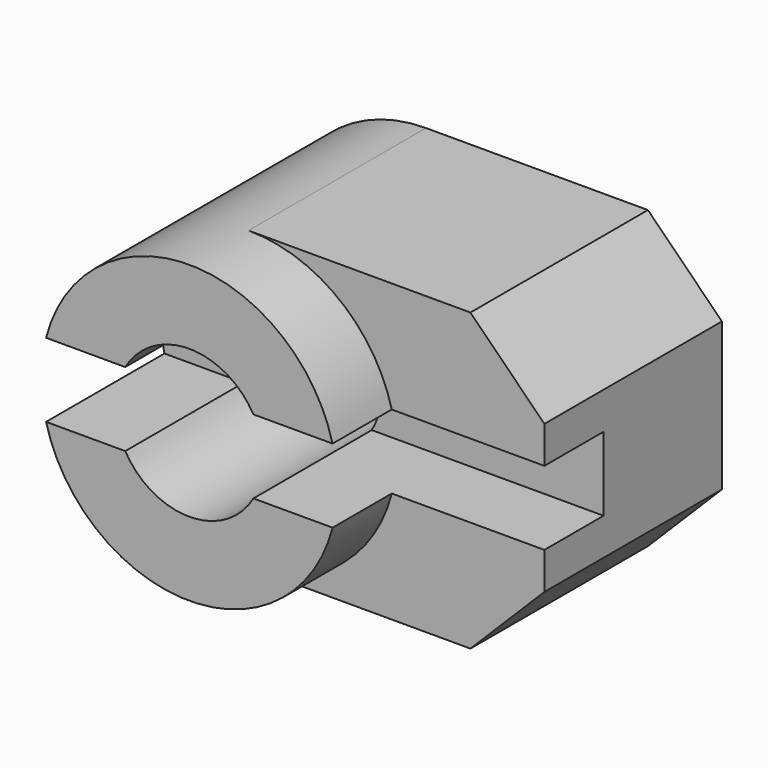
from build123d import *

# Parameters (mm, degrees)
F1_DEPTH = 15
F2_R     = 10
F3_DEPTH = 5
F4_R     = 5
F5_DEPTH = 20.001
F7_DEPTH = 10


with BuildPart() as f1:
    # F0 (on Front) → F1 (new body)
    with BuildSketch(Plane.XZ):
        with BuildLine():
            Line((15, 20), (0, 20))
            ThreePointArc((0, 20), (-10, 10), (0, 0))
            Line((0, 0), (15, 0))
            Line((15, 0), (20, 5))
            Line((20, 5), (20, 15))
            Line((20, 15), (15, 20))
        make_face()
    extrude(amount=F1_DEPTH)

    # F2 (on face) → F3 (join)
    with BuildSketch(Plane.XZ.offset(15)):
        with Locations((0, 10)):
            Circle(F2_R)
    extrude(amount=F3_DEPTH)

    # F4 (on face) → F5 (cut, through all)
    with BuildSketch(Plane.XZ.offset(20)):
        with Locations((0, 10)):
            Circle(F4_R)
    extrude(amount=-F5_DEPTH, mode=Mode.SUBTRACT)

    # F6 (on face) → F7 (cut)
    with BuildSketch(Plane.XZ.offset(20)):
        Polygon((-15, 7.5), (0, 7.5), (25, 7.5), (25, 12.5), (0, 12.5), (-15, 12.5), align=None)
    extrude(amount=-F7_DEPTH, mode=Mode.SUBTRACT)


solid = f1.part
